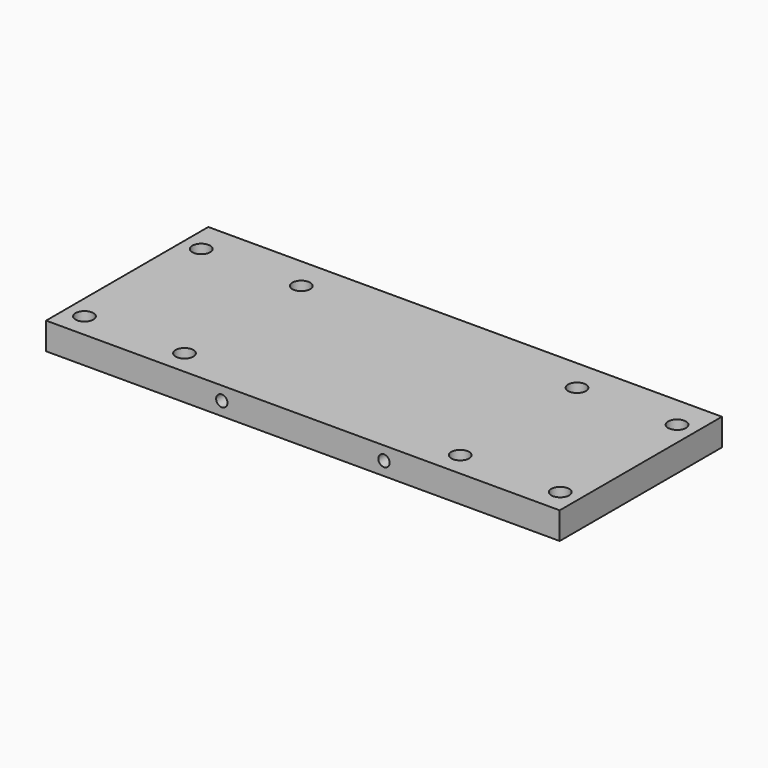
from build123d import *

# Parameters (mm, degrees)
SKETCH_W               = 190
SKETCH_H               = 75
PAD_DEPTH              = 10
SKETCH001_R            = 3.3
HOLE_DEPTH             = 10.001
LINEARPATTERN_COUNT    = 2
LINEARPATTERN_PITCH    = 37
LINEARPATTERN001_COUNT = 2
LINEARPATTERN001_PITCH = 139
LINEARPATTERN002_COUNT = 2
LINEARPATTERN002_PITCH = 176
SKETCH002_R            = 3.3
HOLE001_DEPTH          = 10.001
LINEARPATTERN003_COUNT = 2
LINEARPATTERN003_PITCH = 37
LINEARPATTERN004_COUNT = 2
LINEARPATTERN004_PITCH = 139
LINEARPATTERN005_COUNT = 2
LINEARPATTERN005_PITCH = 176
SKETCH003_R            = 2.1
HOLE002_DEPTH          = 25
LINEARPATTERN006_COUNT = 2
LINEARPATTERN006_PITCH = 60


with BuildPart() as part:
    # Sketch → Pad (new body)
    with BuildSketch(Plane.XY):
        with Locations((95, 37.5)):
            Rectangle(SKETCH_W, SKETCH_H)
    extrude(amount=PAD_DEPTH)

    # Sketch001 (on Face6 of Pad) → Hole (cut, through all)
    with BuildSketch(Plane.XY.offset(10)):
        with Locations((7, 9)):
            Circle(SKETCH001_R)
    hole = extrude(amount=-HOLE_DEPTH, mode=Mode.SUBTRACT)

    # LinearPattern: Hole ×2
    with Locations(*[(i * LINEARPATTERN_PITCH, 0, 0) for i in range(1, LINEARPATTERN_COUNT)]):
        add(hole, mode=Mode.SUBTRACT)

    # LinearPattern001: Hole ×2
    with Locations(*[(i * LINEARPATTERN001_PITCH, 0, 0) for i in range(1, LINEARPATTERN001_COUNT)]):
        add(hole, mode=Mode.SUBTRACT)

    # LinearPattern002: Hole ×2
    with Locations(*[(i * LINEARPATTERN002_PITCH, 0, 0) for i in range(1, LINEARPATTERN002_COUNT)]):
        add(hole, mode=Mode.SUBTRACT)

    # Sketch002 (on Face5 of LinearPattern002) → Hole001 (cut, through all)
    with BuildSketch(Plane.XY.offset(10)):
        with Locations((7, 63)):
            Circle(SKETCH002_R)
    hole001 = extrude(amount=-HOLE001_DEPTH, mode=Mode.SUBTRACT)

    # LinearPattern003: Hole001 ×2
    with Locations(*[(i * LINEARPATTERN003_PITCH, 0, 0) for i in range(1, LINEARPATTERN003_COUNT)]):
        add(hole001, mode=Mode.SUBTRACT)

    # LinearPattern004: Hole001 ×2
    with Locations(*[(i * LINEARPATTERN004_PITCH, 0, 0) for i in range(1, LINEARPATTERN004_COUNT)]):
        add(hole001, mode=Mode.SUBTRACT)

    # LinearPattern005: Hole001 ×2
    with Locations(*[(i * LINEARPATTERN005_PITCH, 0, 0) for i in range(1, LINEARPATTERN005_COUNT)]):
        add(hole001, mode=Mode.SUBTRACT)

    # Sketch003 (on Face1 of LinearPattern005) → Hole002 (cut)
    with BuildSketch(Plane.XZ):
        with Locations((65, 5)):
            Circle(SKETCH003_R)
    hole002 = extrude(amount=-HOLE002_DEPTH, mode=Mode.SUBTRACT)

    # LinearPattern006: Hole002 ×2
    with Locations(*[(i * LINEARPATTERN006_PITCH, 0, 0) for i in range(1, LINEARPATTERN006_COUNT)]):
        add(hole002, mode=Mode.SUBTRACT)


solid = part.part
